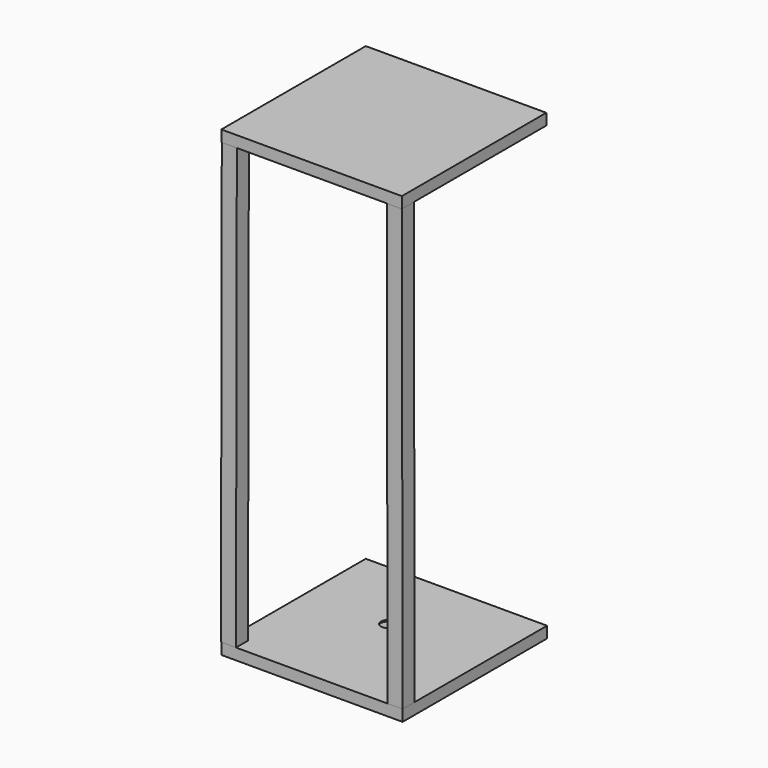
from build123d import *

# Parameters (mm, degrees)
F0_W      = 731.52
F0_H      = 731.52
F1_DEPTH  = 45.72
F3_W      = 734.7105741501
F3_H      = 731.8749427795
F4_DEPTH  = 45.72
F5_W      = 60.96
F5_H      = 60.96
F6_W      = 60.96
F6_H      = 60.96
F12_R     = 27.8235207136
F13_DEPTH = 6.096
F14_R     = 22.7734806104
F15_DEPTH = 60.96
F16_W     = 256.0497522354
F16_H     = 156.4687490463
F16_R     = 22.7734806104
F17_DEPTH = 24.384


with BuildPart() as f1:
    # F0 (on Top) → F1 (new body)
    with BuildSketch(Plane.XY):
        with Locations((365.76, -365.76)):
            Rectangle(F0_W, F0_H)
    extrude(amount=F1_DEPTH)

    # F14 (on face) → F15 (join)
    with BuildSketch(Plane(origin=(0, 0, 0), x_dir=(1, 0, 0), z_dir=(0, 0, -1))):
        with Locations((333.9223861694, 398.3253240585)):
            Circle(F14_R)
    extrude(amount=F15_DEPTH)



with BuildPart() as f4:
    # F3 (on offset) → F4 (new body)
    with BuildSketch(Plane.XY.offset(-1828.8)):
        with Locations((367.355287075, -365.9374713898)):
            Rectangle(F3_W, F3_H)
    extrude(amount=F4_DEPTH)

    # F12 (on face) → F13 (cut)
    with BuildSketch(Plane.XY.offset(-1783.08)):
        with Locations((333.7072134018, -305.7377934456)):
            Circle(F12_R)
    extrude(amount=-F13_DEPTH, mode=Mode.SUBTRACT)


with BuildPart() as f7:
    # F5 (on face) → F7 section 0
    with BuildSketch(Plane(origin=(0, 0, 0), x_dir=(1, 0, 0), z_dir=(0, 0, -1))):
        with Locations((701.04, 701.04)):
            Rectangle(F5_W, F5_H)
    # F6 (on face) → F7 section 1
    with BuildSketch(Plane.XY.offset(-1783.08)):
        with Locations((704.2305741501, -701.3949427795)):
            Rectangle(F6_W, F6_H)
    loft()


with BuildPart() as f8_1:
    # F8: instance of F7
    add(f7.part.mirror(Plane.YZ))


with BuildPart() as f11_1:
    # F11: instance of F7
    add(f7.part.mirror(Plane.YZ.offset(366.6744)))


with BuildPart() as f1_1:
    add(f1.part)

    add(f4.part)  # F17 merges F4

    add(f7.part)  # F17 merges F7

    add(f11_1.part)  # F17 merges F11_1
    # F16 (on face) → F17 (join)
    with BuildSketch(Plane(origin=(0, 0, -60.96), x_dir=(1, 0, 0), z_dir=(0, 0, -1))):
        with Locations((333.9223861694, 398.3253240585)):
            Rectangle(F16_W, F16_H)
        with Locations((333.9223861694, 398.3253240585)):
            Circle(F16_R, mode=Mode.SUBTRACT)
        with Locations((333.9223861694, 398.3253240585)):
            Circle(F16_R)
    extrude(amount=F17_DEPTH)


solid = f1_1.part
